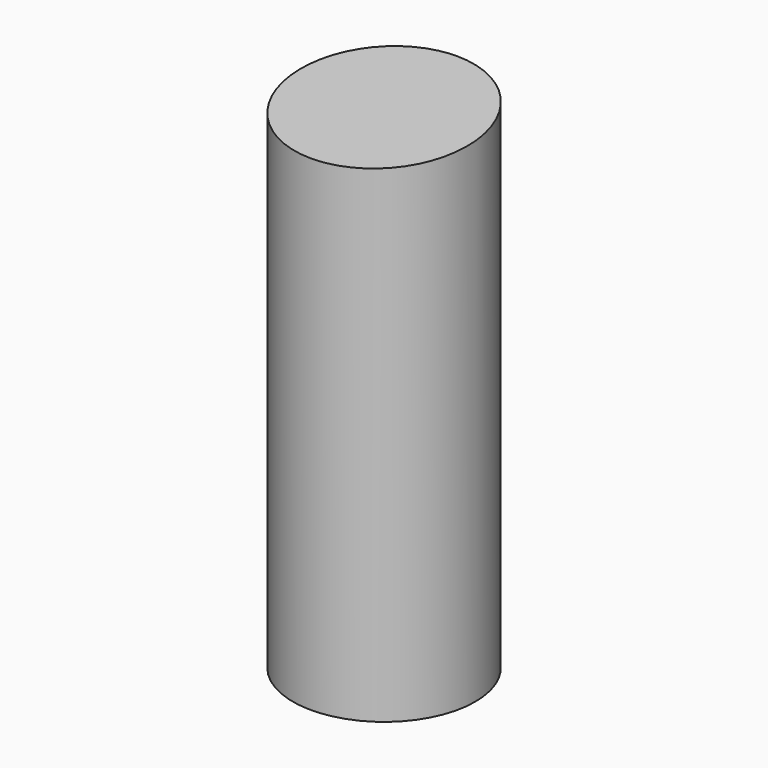
from build123d import *

# Parameters (mm, degrees)
F0_R     = 12.7
F1_DEPTH = 69.85
F3_DEPTH = 25.4


with BuildPart() as f1:
    # F0 (on Top) → F1 (new body)
    with BuildSketch(Plane.XY):
        Circle(F0_R)
    extrude(amount=F1_DEPTH)

    # F2 (on Right) → F3 (cut, symmetric)
    with BuildSketch(Plane.YZ):
        Polygon((12.7, 69.85), (-12.7, 69.85), (-12.7, 67.6277879464), align=None)
    extrude(amount=F3_DEPTH, both=True, mode=Mode.SUBTRACT)


solid = f1.part
